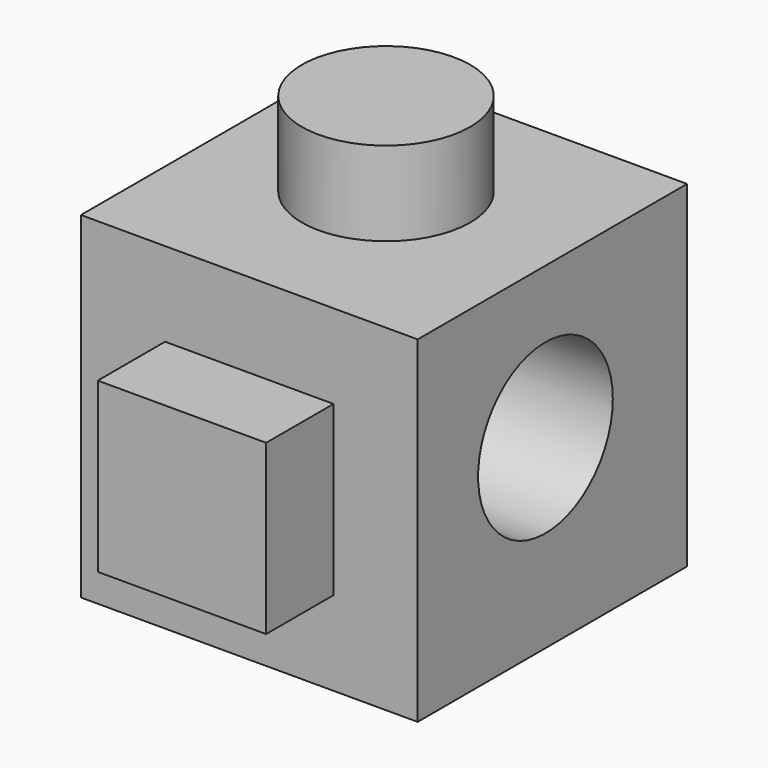
from build123d import *

# Parameters (mm, degrees)
F0_W     = 50.8
F0_H     = 50.8
F1_DEPTH = 50.8
F2_R     = 12.7
F3_DEPTH = 53.34
F4_W     = 25.4
F4_H     = 25.4
F5_DEPTH = 12.7
F6_R     = 12.7
F7_DEPTH = 12.7


with BuildPart() as f1:
    # F0 (on Front) → F1 (new body)
    with BuildSketch(Plane.XZ):
        with Locations((-25.4, 25.4)):
            Rectangle(F0_W, F0_H)
    extrude(amount=F1_DEPTH)

    # F2 (on face) → F3 (cut)
    with BuildSketch(Plane.YZ):
        with Locations((-26.707564, 27.947154)):
            Circle(F2_R)
    extrude(amount=-F3_DEPTH, mode=Mode.SUBTRACT)

    # F4 (on face) → F5 (join)
    with BuildSketch(Plane.XZ.offset(50.8)):
        with Locations((-25.4, 25.4)):
            Rectangle(F4_W, F4_H)
    extrude(amount=F5_DEPTH)

    # F6 (on face) → F7 (join)
    with BuildSketch(Plane.XY.offset(50.8)):
        with Locations((-26.482183, -23.664929)):
            Circle(F6_R)
    extrude(amount=F7_DEPTH)


solid = f1.part
